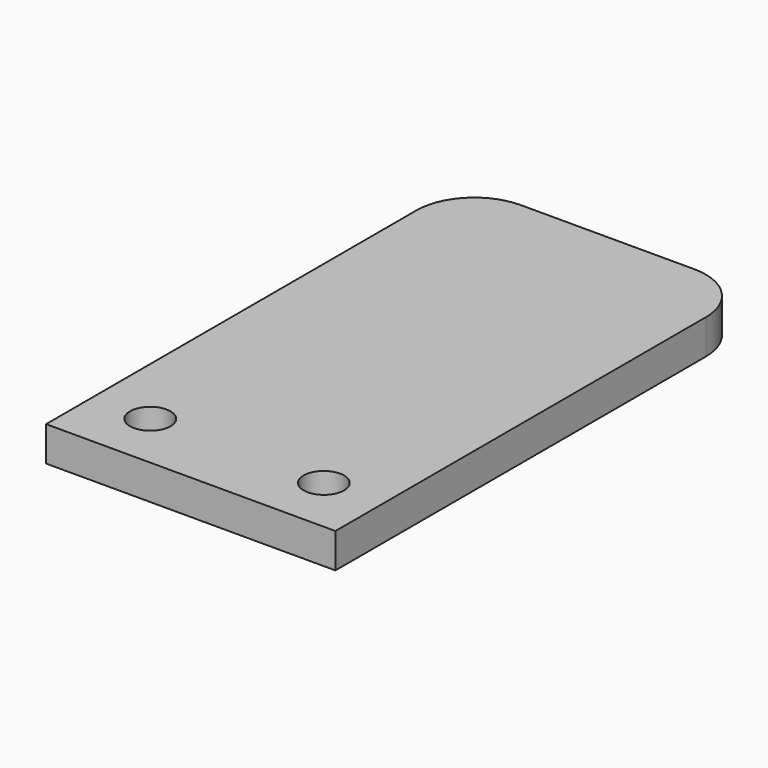
from build123d import *

# Parameters (mm, degrees)
F0_W     = 25
F0_H     = 45
F0_R     = 1.75
F1_DEPTH = 3
F2_R     = 5


with BuildPart() as f1:
    # F0 (on Top) → F1 (new body)
    with BuildSketch(Plane.XY):
        with Locations((-2.834506, 15.854306)):
            Rectangle(F0_W, F0_H)
        with Locations((-10.334506, -1.645694)):
            Circle(F0_R, mode=Mode.SUBTRACT)
        with Locations((4.665494, -1.645694)):
            Circle(F0_R, mode=Mode.SUBTRACT)
    extrude(amount=F1_DEPTH)

    # F2
    f2_edges = [f1.edges().sort_by_distance(p)[0] for p in [
        (9.665494, 38.354306, 1.5),
        (-15.334506, 38.354306, 1.5),
    ]]
    fillet(f2_edges, radius=F2_R)


solid = f1.part
